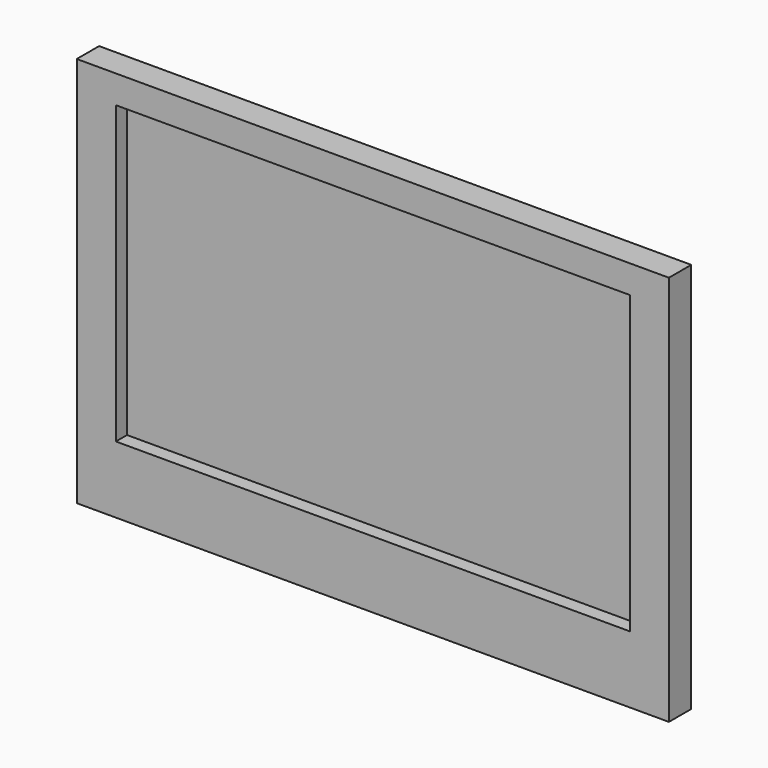
from build123d import *

# Parameters (mm, degrees)
F0_W     = 1060
F0_H     = 700
F1_DEPTH = 150
F2_SIZE  = 100
F3_W     = 920
F3_H     = 530
F4_DEPTH = 25


with BuildPart() as f1:
    # F0 (on Front) → F1 (new body)
    with BuildSketch(Plane.XZ):
        with Locations((530, 350)):
            Rectangle(F0_W, F0_H)
    extrude(amount=F1_DEPTH)

    # F2
    f2_edges = [f1.edges().sort_by_distance(p)[0] for p in [
        (1060, 0, 350),
        (530, 0, 700),
        (0, 0, 350),
        (530, 0, 0),
    ]]
    chamfer(f2_edges, length=F2_SIZE)

    # F3 (on face) → F4 (cut)
    with BuildSketch(Plane.XZ.offset(150)):
        with Locations((530, 385)):
            Rectangle(F3_W, F3_H)
    extrude(amount=-F4_DEPTH, mode=Mode.SUBTRACT)


solid = f1.part
